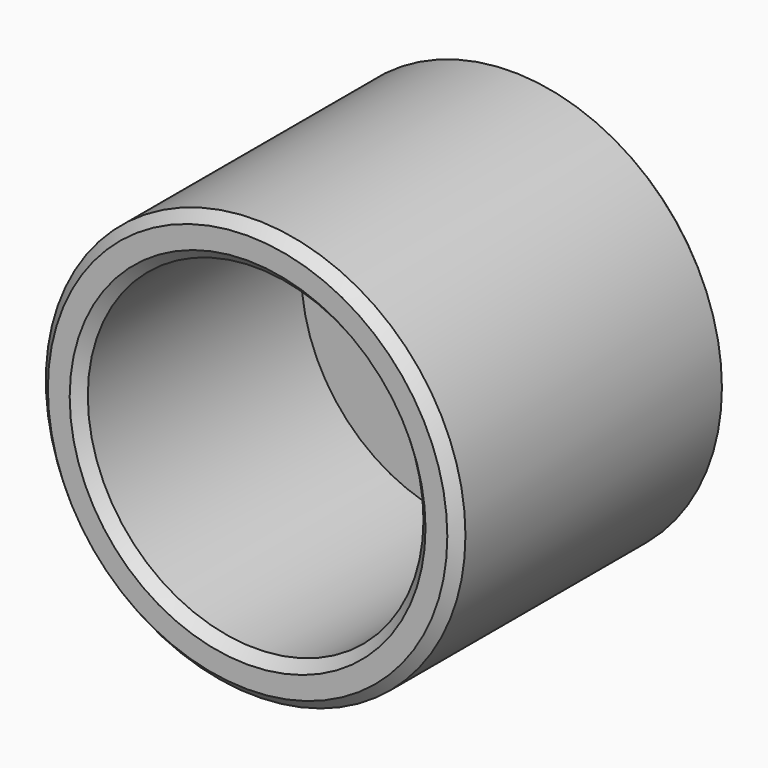
from build123d import *

# Parameters (mm, degrees)
F0_R     = 12.7
F0_R_2   = 4.7625
F1_DEPTH = 3.175
F2_R     = 15.875
F2_R_2   = 4.7625
F3_DEPTH = 4.445
F4_R     = 15.875
F4_R_2   = 12.7
F5_DEPTH = 25.4
F6_SIZE  = 0.762
F7_SIZE  = 0.381


with BuildPart() as f1:
    # F0 (on Front) → F1 (new body)
    with BuildSketch(Plane.XZ):
        Circle(F0_R)
        Circle(F0_R_2, mode=Mode.SUBTRACT)
    extrude(amount=-F1_DEPTH)

    # F2 (on Front) → F3 (join)
    with BuildSketch(Plane.XZ):
        Circle(F2_R)
        Circle(F2_R_2, mode=Mode.SUBTRACT)
    extrude(amount=F3_DEPTH)

    # F4 (on Front) → F5 (join)
    with BuildSketch(Plane.XZ):
        Circle(F4_R)
        Circle(F4_R_2, mode=Mode.SUBTRACT)
    extrude(amount=F5_DEPTH)

    # F6
    f6_edges = [f1.edges().sort_by_distance(p)[0] for p in [
        (-12.7, -25.4, 0),
        (-15.875, -25.4, 0),
        (-4.7625, -4.445, 0),
        (-12.7, 3.175, 0),
        (-4.7625, 3.175, 0),
    ]]
    chamfer(f6_edges, length=F6_SIZE)

    # F7
    f7_edges = [f1.edges().sort_by_distance(p)[0] for p in [
        (-15.875, 0, 0),
    ]]
    chamfer(f7_edges, length=F7_SIZE)


solid = f1.part
